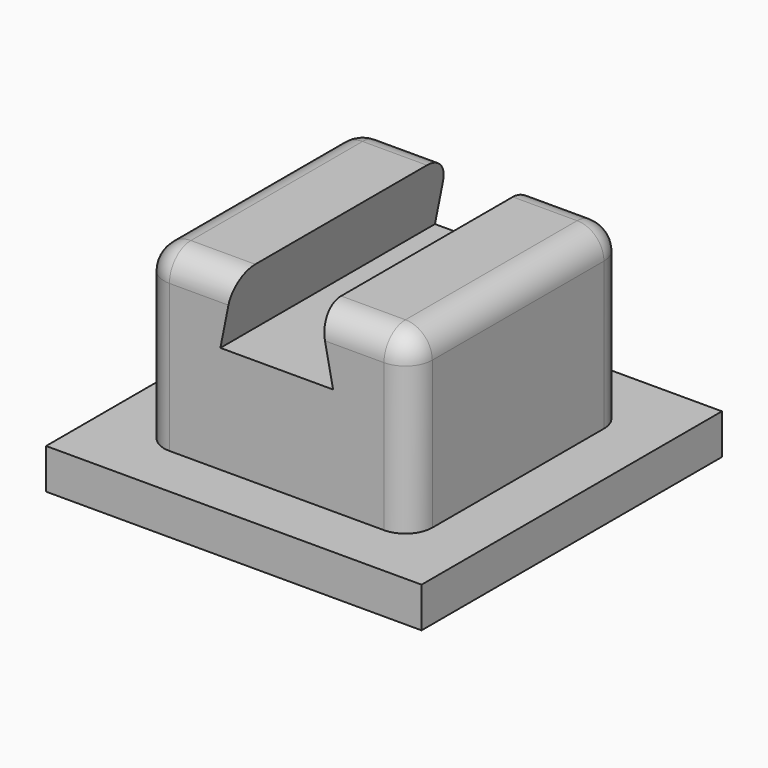
from build123d import *

# Parameters (mm, degrees)
F0_W     = 14
F0_H     = 14
F0_W_2   = 10
F0_H_2   = 10
F1_DEPTH = 1.5
F2_DEPTH = 8
F4_DEPTH = 25
F5_R     = 1


with BuildPart() as f1:
    # F0 (on Top) → F1 (new body)
    with BuildSketch(Plane.XY):
        Rectangle(F0_W, F0_H)
        Rectangle(F0_W_2, F0_H_2, mode=Mode.SUBTRACT)
    extrude(amount=F1_DEPTH)

    # F0 (on Top) → F2 (join)
    with BuildSketch(Plane.XY):
        Rectangle(F0_W_2, F0_H_2)
    extrude(amount=F2_DEPTH)

    # F3 (on face) → F4 (cut)
    with BuildSketch(Plane.XZ.offset(5)):
        Polygon((1.6, 8), (-1.6, 8), (-2.1, 5.5), (2.1, 5.5), align=None)
    extrude(amount=-F4_DEPTH, mode=Mode.SUBTRACT)

    # F5
    f5_edges = [f1.edges().sort_by_distance(p)[0] for p in [
        (-5, 0, 8),
        (3.3, -5, 8),
        (-3.3, -5, 8),
        (-3.3, 5, 8),
        (3.3, 5, 8),
        (-5, 5, 4.75),
        (-5, -5, 4.75),
        (5, -5, 4.75),
        (5, 5, 4.75),
        (5, 0, 8),
    ]]
    fillet(f5_edges, radius=F5_R)


solid = f1.part
